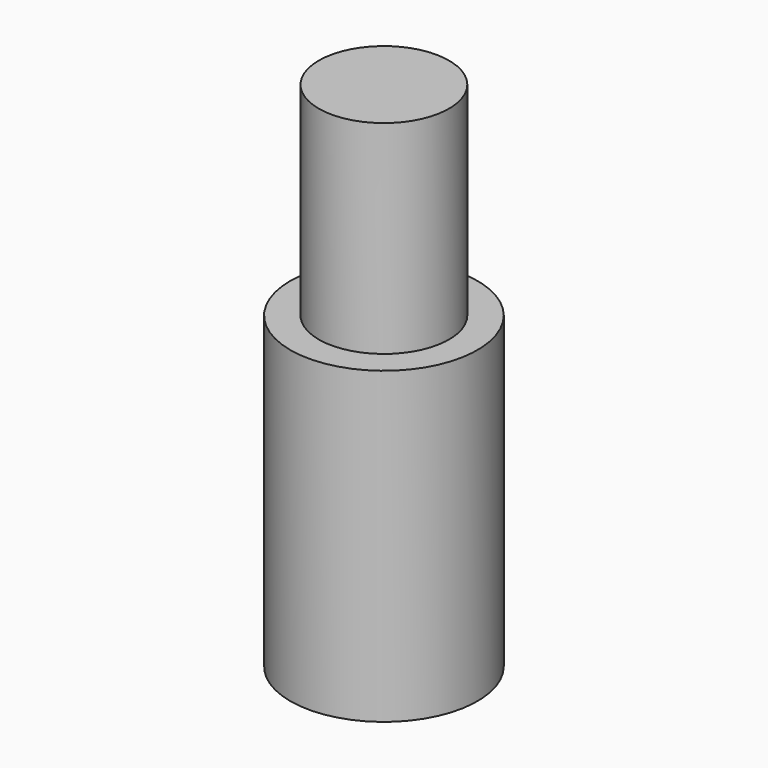
from build123d import *

# Parameters (mm, degrees)
F0_W     = 32.885318622
F0_H     = 108.601231128
F2_T     = -10
F3_DEPTH = 170


with BuildPart() as f1:
    # F0 (on Front) → F1 (revolve)
    with BuildSketch(Plane.XZ):
        with Locations((-16.4426611736, -4.2723771185)):
            Rectangle(F0_W, F0_H)
    revolve(axis=Axis((-1.8626e-06, 0, -4.2723771185), (0, 0, -1)))

    # F2
    f2_openings = [f1.faces().sort_by_distance(p)[0] for p in [
        (-2e-06, 0, 50.028238),
    ]]
    offset(amount=F2_T, openings=f2_openings)

    # F3 (add): a face of the model
    f3_faces = [f1.faces().sort_by_distance(p)[0] for p in [
        (-1.8626e-06, 0, -48.5729926825),
    ]]
    extrude(f3_faces, amount=F3_DEPTH)


solid = f1.part
